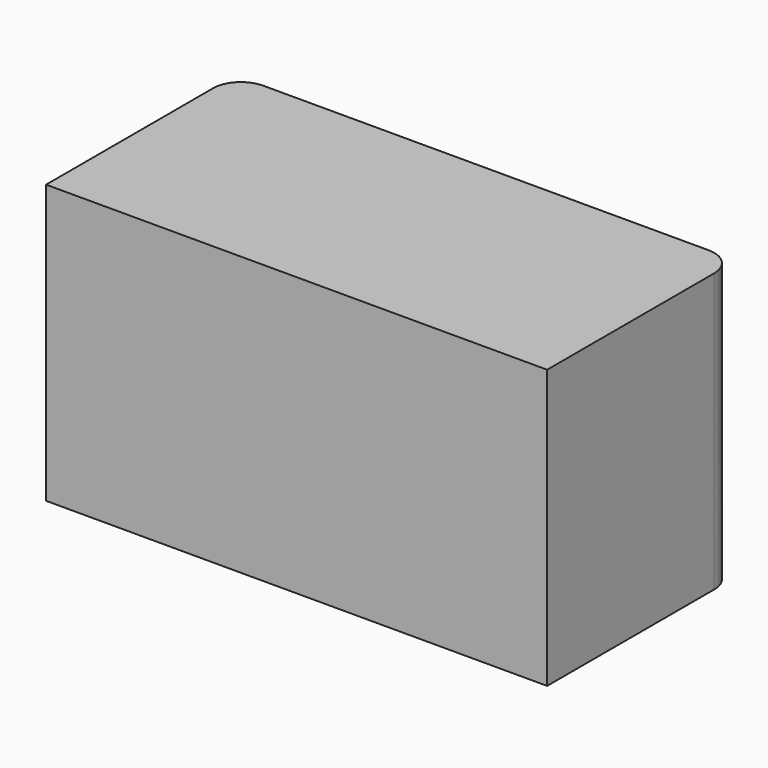
from build123d import *

# Parameters (mm, degrees)
PAD_DEPTH = 20


with BuildPart() as part:
    # Sketch → Pad (new body)
    with BuildSketch(Plane.XY):
        with BuildLine():
            Line((0, 0), (0, 15))
            ThreePointArc((2, 17), (0.585786, 16.414214), (0, 15))
            Line((2, 17), (34, 17))
            ThreePointArc((36, 15), (35.414214, 16.414214), (34, 17))
            Line((36, 15), (36, 0))
            Line((0, 0), (36, 0))
        make_face()
    extrude(amount=PAD_DEPTH)


solid = part.part
